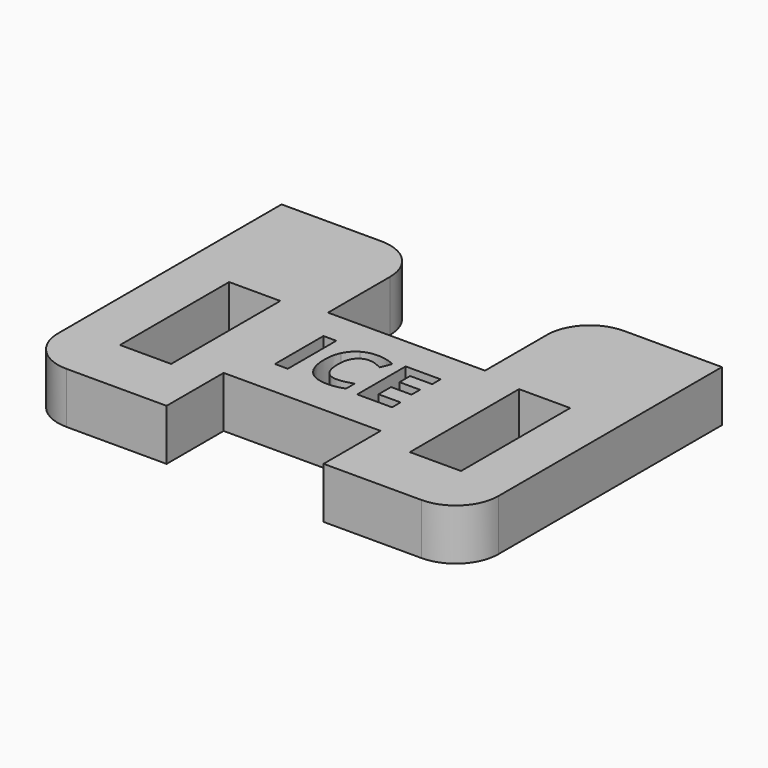
from build123d import *

# Parameters (mm, degrees)
F0_W     = 7.62
F0_H     = 20.32
F0_W_2   = 1.9155620143
F0_H_2   = 9.0322010769
F1_DEPTH = 7.62


with BuildPart() as f1:
    # F0 (on Top) → F1 (new body)
    with BuildSketch(Plane.XY):
        with BuildLine():
            Line((-25.5452958703, 25.9614996612), (-40.4520854354, 25.9614996612))
            Line((-40.4520854354, 25.9614996612), (-40.4520854354, -15.6641373575))
            ThreePointArc((-40.4520854354, -15.6641373575), (-38.5922134959, -20.154265418), (-34.1020854354, -22.0141373575))
            Line((-34.1020854354, -22.0141373575), (-19.1952958703, -22.0141373575))
            Line((-19.1952958703, -22.0141373575), (-19.1952958703, -11.3866217434))
            Line((-19.1952958703, -11.3866217434), (4.1871713474, -11.3866217434))
            Line((4.1871713474, -11.3866217434), (4.1871713474, -22.0141373575))
            Line((4.1871713474, -22.0141373575), (18.7902929425, -22.0141373575))
            ThreePointArc((18.7902929425, -22.0141373575), (23.2804210031, -20.154265418), (25.1402929425, -15.6641373575))
            Line((25.1402929425, -15.6641373575), (25.1402929425, 25.9614996612))
            Line((25.1402929425, 25.9614996612), (10.5371713474, 25.9614996612))
            ThreePointArc((10.5371713474, 25.9614996612), (6.0470432869, 24.1016277217), (4.1871713474, 19.6114996612))
            Line((4.1871713474, 19.6114996612), (4.1871713474, 8.0465469509))
            Line((4.1871713474, 8.0465469509), (-19.1952958703, 8.0465469509))
            Line((-19.1952958703, 8.0465469509), (-19.1952958703, 19.6114996612))
            ThreePointArc((-19.1952958703, 19.6114996612), (-21.0551678098, 24.1016277217), (-25.5452958703, 25.9614996612))
        make_face()
        with Locations((-29.182958674, -3.2836972007)):
            Rectangle(F0_W, F0_H, mode=Mode.SUBTRACT)
        with Locations((-14.9751515718, -1.4049426843)):
            Rectangle(F0_W_2, F0_H_2, mode=Mode.SUBTRACT)
        with BuildLine():
            add(Edge.make_bspline(
                [(-6.9007315021, 1.4674119151), (-7.4127341457, 1.6463163138), (-7.9069451917, 1.6463163138)],
                knots=[0, 0, 0, 1, 1, 1], degree=2))
            add(Edge.make_bspline(
                [(-7.9069451917, 1.6463163138), (-8.9882789604, 1.6463163138), (-9.5813322156, 0.8338333541)],
                knots=[0, 0, 0, 1, 1, 1], degree=2))
            add(Edge.make_bspline(
                [(-9.5813322156, 0.8338333541), (-10.1743854708, 0.0213503945), (-10.1743854708, -1.4296532366)],
                knots=[0, 0, 0, 1, 1, 1], degree=2))
            add(Edge.make_bspline(
                [(-10.1743854708, -1.4296532366), (-10.1743854708, -4.4502711498), (-7.9069451917, -4.4502711498)],
                knots=[0, 0, 0, 1, 1, 1], degree=2))
            add(Edge.make_bspline(
                [(-7.9069451917, -4.4502711498), (-6.9560831392, -4.4502711498), (-5.6039217173, -3.9758285457)],
                knots=[0, 0, 0, 1, 1, 1], degree=2))
            Line((-5.6039217173, -3.9758285457), (-5.6039217173, -5.5810260231))
            add(Edge.make_bspline(
                [(-5.6039217173, -5.5810260231), (-6.7149081488, -6.0455844064), (-8.0868380125, -6.0455844064)],
                knots=[0, 0, 0, 1, 1, 1], degree=2))
            add(Edge.make_bspline(
                [(-8.0868380125, -6.0455844064), (-10.057751664, -6.0455844064), (-11.1015253932, -4.849593675)],
                knots=[0, 0, 0, 1, 1, 1], degree=2))
            add(Edge.make_bspline(
                [(-11.1015253932, -4.849593675), (-12.1452991223, -3.6536029437), (-12.1452991223, -1.4177921715)],
                knots=[0, 0, 0, 1, 1, 1], degree=2))
            add(Edge.make_bspline(
                [(-12.1452991223, -1.4177921715), (-12.1452991223, -0.0083022683), (-11.6323080566, 1.0512862144)],
                knots=[0, 0, 0, 1, 1, 1], degree=2))
            add(Edge.make_bspline(
                [(-11.6323080566, 1.0512862144), (-11.1193169908, 2.110874697), (-10.1585707174, 2.6752637116)],
                knots=[0, 0, 0, 1, 1, 1], degree=2))
            add(Edge.make_bspline(
                [(-10.1585707174, 2.6752637116), (-9.1978244439, 3.2396527261), (-7.9069451917, 3.2396527261)],
                knots=[0, 0, 0, 1, 1, 1], degree=2))
            add(Edge.make_bspline(
                [(-7.9069451917, 3.2396527261), (-6.5923438093, 3.2396527261), (-5.2639045177, 2.605085743)],
                knots=[0, 0, 0, 1, 1, 1], degree=2))
            Line((-5.2639045177, 2.605085743), (-5.8806799031, 1.047332526))
            add(Edge.make_bspline(
                [(-5.8806799031, 1.047332526), (-6.3887288584, 1.2885075165), (-6.9007315021, 1.4674119151)],
                knots=[0, 0, 0, 1, 1, 1], degree=2))
        make_face(mode=Mode.SUBTRACT)
        Polygon((1.5186478778, -4.3395678755), (1.5186478778, -5.9210432228), (-3.6824291704, -5.9210432228), (-3.6824291704, 3.1111578542), (1.5186478778, 3.1111578542), (1.5186478778, 1.541543572), (-1.7668671561, 1.541543572), (-1.7668671561, -0.4412311446), (1.2913107967, -0.4412311446), (1.2913107967, -2.0108454267), (-1.7668671561, -2.0108454267), (-1.7668671561, -4.3395678755), align=None, mode=Mode.SUBTRACT)
        with Locations((13.997041326, -3.2836972007)):
            Rectangle(F0_W, F0_H, mode=Mode.SUBTRACT)
    extrude(amount=F1_DEPTH)


solid = f1.part
